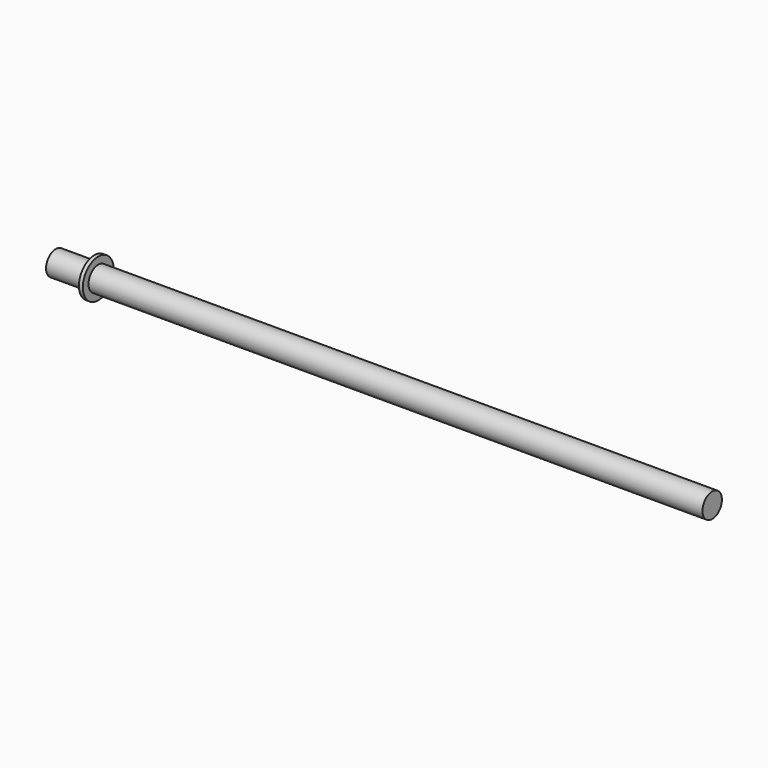
from build123d import *

# Parameters (mm, degrees)
F0_R     = 4
F1_DEPTH = 203.2
F2_R     = 6.35
F3_DEPTH = 1.27
F4_R     = 4
F5_DEPTH = 12.7


with BuildPart() as f1:
    # F0 (on Right) → F1 (new body)
    with BuildSketch(Plane.YZ):
        Circle(F0_R)
    extrude(amount=F1_DEPTH)

    # F2 (on Right) → F3 (join)
    with BuildSketch(Plane.YZ):
        Circle(F2_R)
    extrude(amount=F3_DEPTH)

    # F4 (on Right) → F5 (join)
    with BuildSketch(Plane.YZ):
        Circle(F4_R)
    extrude(amount=-F5_DEPTH)


solid = f1.part
